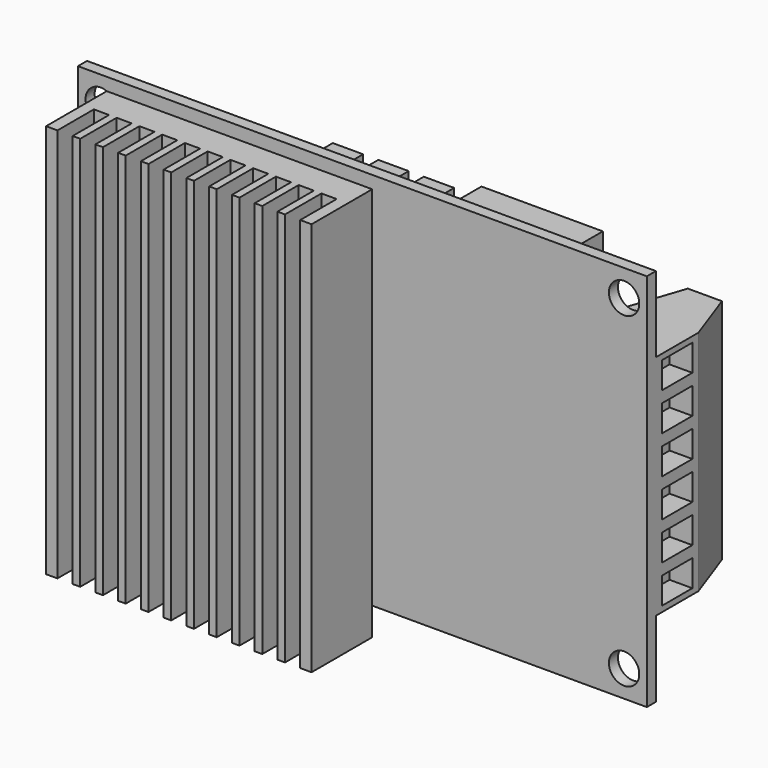
from build123d import *

# Parameters (mm, degrees)
SKETCH_W        = 75
SKETCH_H        = 50
SKETCH_R        = 2
PAD_DEPTH       = 1.5
SKETCH002_W     = 10
SKETCH002_H     = 30
PAD001_DEPTH    = 14
POCKET_DEPTH    = 30
SKETCH004_R     = 2
POCKET001_DEPTH = 2
SKETCH005_W     = 3.5
SKETCH005_H     = 5
POCKET002_DEPTH = 3
SKETCH006_W     = 3.5
SKETCH006_H     = 5
POCKET003_DEPTH = 3
SKETCH007_W     = 16
SKETCH007_H     = 10
PAD002_DEPTH    = 5
SKETCH008_W     = 1.5
SKETCH008_H     = 5
POCKET004_DEPTH = 0.5
SKETCH009_W     = 1.5
SKETCH009_H     = 1.5
PAD003_DEPTH    = 1.5
SKETCH010_W     = 4
SKETCH010_H     = 10
PAD004_DEPTH    = 3
SKETCH011_W     = 1.5
SKETCH011_H     = 6
POCKET005_DEPTH = 0.5
SKETCH012_W     = 1.5
SKETCH012_H     = 1.5
PAD005_DEPTH    = 2
SKETCH013_R     = 4.5
PAD006_DEPTH    = 16
FILLET_R        = 1
SKETCH014_R     = 3
PAD007_DEPTH    = 12
FILLET001_R     = 1
SKETCH015_W     = 6
SKETCH015_H     = 3
SKETCH015_H_2   = 3.63
PAD008_DEPTH    = 1
SKETCH016_W     = 6
SKETCH016_H     = 9
SKETCH016_H_2   = 7
SKETCH016_H_3   = 4
PAD009_DEPTH    = 4
SKETCH017_W     = 10
SKETCH017_H     = 4
SKETCH017_W_2   = 5
SKETCH017_H_2   = 5
SKETCH017_W_3   = 2
SKETCH017_H_3   = 3
PAD010_DEPTH    = 1
SKETCH018_W     = 13
SKETCH018_H     = 36
PAD011_DEPTH    = 4
SKETCH019_W     = 35
SKETCH019_H     = 52
PAD012_DEPTH    = 10
SKETCH020_W     = 2
SKETCH020_H     = 6
POCKET006_DEPTH = 52


with BuildPart() as part:
    # Sketch → Pad (new body)
    with BuildSketch(Plane.XZ):
        with Locations((37.5, 25)):
            Rectangle(SKETCH_W, SKETCH_H)
        with Locations((3, 46.5)):
            Circle(SKETCH_R, mode=Mode.SUBTRACT)
        with Locations((72, 46.5)):
            Circle(SKETCH_R, mode=Mode.SUBTRACT)
        with Locations((3, 3.5)):
            Circle(SKETCH_R, mode=Mode.SUBTRACT)
        with Locations((72, 3.5)):
            Circle(SKETCH_R, mode=Mode.SUBTRACT)
    extrude(amount=PAD_DEPTH)

    # Sketch002 (on Face9 of Pad) → Pad001 (join)
    with BuildSketch(Plane(origin=(0, 0, 0), x_dir=(1, 0, 0), z_dir=(0, 1, 0))):
        with Locations((5, -25)):
            Rectangle(SKETCH002_W, SKETCH002_H)
        with Locations((70, -25)):
            Rectangle(SKETCH002_W, SKETCH002_H)
    extrude(amount=PAD001_DEPTH)

    # Sketch003 (on Face11 of Pad001) → Pocket (cut)
    with BuildSketch(Plane(origin=(0, 0, 40), x_dir=(-1, 0, 0), z_dir=(0, 0, 1))):
        Polygon((0, -7), (0, -14), (-2, -14), align=None)
        Polygon((-7, -14), (-10, -14), (-10, -5), align=None)
        Polygon((-65, -5), (-65, -14), (-68, -14), align=None)
        Polygon((-72.5, -14), (-75, -14), (-75, -7), align=None)
    extrude(amount=-POCKET_DEPTH, mode=Mode.SUBTRACT)

    # Sketch004 (on Face22 of Pocket) → Pocket001 (cut)
    with BuildSketch(Plane(origin=(0, 14, 0), x_dir=(1, 0, 0), z_dir=(0, 1, 0))):
        with Locations((4.5, -12.5)):
            Circle(SKETCH004_R)
        with Locations((4.5, -17.5)):
            Circle(SKETCH004_R)
        with Locations((4.5, -22.5)):
            Circle(SKETCH004_R)
        with Locations((4.5, -27.5)):
            Circle(SKETCH004_R)
        with Locations((4.5, -32.5)):
            Circle(SKETCH004_R)
        with Locations((4.5, -37.5)):
            Circle(SKETCH004_R)
        with Locations((70.5, -12.5)):
            Circle(SKETCH004_R)
        with Locations((70.5, -17.5)):
            Circle(SKETCH004_R)
        with Locations((70.5, -22.5)):
            Circle(SKETCH004_R)
        with Locations((70.5, -27.5)):
            Circle(SKETCH004_R)
        with Locations((70.5, -32.5)):
            Circle(SKETCH004_R)
        with Locations((70.5, -37.5)):
            Circle(SKETCH004_R)
    extrude(amount=-POCKET001_DEPTH, mode=Mode.SUBTRACT)

    # Sketch005 (on Face7 of Pocket001) → Pocket002 (cut)
    with BuildSketch(Plane(origin=(0, 0, 0), x_dir=(0, 0, -1), z_dir=(-1, 0, 0))):
        with Locations((-37.5, -3.5)):
            Rectangle(SKETCH005_W, SKETCH005_H)
        with Locations((-32.5, -3.5)):
            Rectangle(SKETCH005_W, SKETCH005_H)
        with Locations((-27.5, -3.5)):
            Rectangle(SKETCH005_W, SKETCH005_H)
        with Locations((-22.5, -3.5)):
            Rectangle(SKETCH005_W, SKETCH005_H)
        with Locations((-17.5, -3.5)):
            Rectangle(SKETCH005_W, SKETCH005_H)
        with Locations((-12.5, -3.5)):
            Rectangle(SKETCH005_W, SKETCH005_H)
    extrude(amount=-POCKET002_DEPTH, mode=Mode.SUBTRACT)

    # Sketch006 (on Face8 of Pocket002) → Pocket003 (cut)
    with BuildSketch(Plane(origin=(75, 0, 0), x_dir=(0, 0, 1), z_dir=(1, 0, 0))):
        with Locations((12.5, -3.5)):
            Rectangle(SKETCH006_W, SKETCH006_H)
        with Locations((17.5, -3.5)):
            Rectangle(SKETCH006_W, SKETCH006_H)
        with Locations((22.5, -3.5)):
            Rectangle(SKETCH006_W, SKETCH006_H)
        with Locations((27.5, -3.5)):
            Rectangle(SKETCH006_W, SKETCH006_H)
        with Locations((32.5, -3.5)):
            Rectangle(SKETCH006_W, SKETCH006_H)
        with Locations((37.5, -3.5)):
            Rectangle(SKETCH006_W, SKETCH006_H)
    extrude(amount=-POCKET003_DEPTH, mode=Mode.SUBTRACT)

    # Sketch007 (on Face4 of Pocket003) → Pad002 (join)
    with BuildSketch(Plane(origin=(0, 0, 0), x_dir=(1, 0, 0), z_dir=(0, 1, 0))):
        with Locations((56, -44)):
            Rectangle(SKETCH007_W, SKETCH007_H)
    extrude(amount=PAD002_DEPTH)

    # Sketch008 (on Face77 of Pad002) → Pocket004 (cut)
    with BuildSketch(Plane(origin=(0, 5, 0), x_dir=(1, 0, 0), z_dir=(0, 1, 0))):
        with Locations((49.75, -43.5)):
            Rectangle(SKETCH008_W, SKETCH008_H)
        with Locations((52.25, -43.5)):
            Rectangle(SKETCH008_W, SKETCH008_H)
        with Locations((54.75, -43.5)):
            Rectangle(SKETCH008_W, SKETCH008_H)
        with Locations((57.25, -43.5)):
            Rectangle(SKETCH008_W, SKETCH008_H)
        with Locations((59.75, -43.5)):
            Rectangle(SKETCH008_W, SKETCH008_H)
        with Locations((62.25, -43.5)):
            Rectangle(SKETCH008_W, SKETCH008_H)
    extrude(amount=-POCKET004_DEPTH, mode=Mode.SUBTRACT)

    # Sketch009 (on Face140 of Pocket004) → Pad003 (join)
    with BuildSketch(Plane(origin=(0, 4.5, 0), x_dir=(1, 0, 0), z_dir=(0, 1, 0))):
        with Locations((49.75, -41.75)):
            Rectangle(SKETCH009_W, SKETCH009_H)
        with Locations((52.25, -41.75)):
            Rectangle(SKETCH009_W, SKETCH009_H)
        with Locations((54.75, -41.75)):
            Rectangle(SKETCH009_W, SKETCH009_H)
        with Locations((57.25, -41.75)):
            Rectangle(SKETCH009_W, SKETCH009_H)
        with Locations((59.75, -41.75)):
            Rectangle(SKETCH009_W, SKETCH009_H)
        with Locations((62.25, -41.75)):
            Rectangle(SKETCH009_W, SKETCH009_H)
    extrude(amount=PAD003_DEPTH)

    # Sketch010 (on Face4 of Pad003) → Pad004 (join)
    with BuildSketch(Plane(origin=(0, 0, 0), x_dir=(1, 0, 0), z_dir=(0, 1, 0))):
        with Locations((44, -44)):
            Rectangle(SKETCH010_W, SKETCH010_H)
        with Locations((38, -44)):
            Rectangle(SKETCH010_W, SKETCH010_H)
        with Locations((32, -44)):
            Rectangle(SKETCH010_W, SKETCH010_H)
    extrude(amount=PAD004_DEPTH)

    # Sketch011 (on Face92 of Pad004) → Pocket005 (cut)
    with BuildSketch(Plane(origin=(0, 3, 0), x_dir=(1, 0, 0), z_dir=(0, 1, 0))):
        with Locations((32, -44)):
            Rectangle(SKETCH011_W, SKETCH011_H)
        with Locations((38, -44)):
            Rectangle(SKETCH011_W, SKETCH011_H)
        with Locations((44, -44)):
            Rectangle(SKETCH011_W, SKETCH011_H)
    extrude(amount=-POCKET005_DEPTH, mode=Mode.SUBTRACT)

    # Sketch012 (on Face197 of Pocket005) → Pad005 (join)
    with BuildSketch(Plane(origin=(0, 2.5, 0), x_dir=(1, 0, 0), z_dir=(0, 1, 0))):
        with Locations((32, -41.75)):
            Rectangle(SKETCH012_W, SKETCH012_H)
        with Locations((38, -41.75)):
            Rectangle(SKETCH012_W, SKETCH012_H)
        with Locations((44, -41.75)):
            Rectangle(SKETCH012_W, SKETCH012_H)
    extrude(amount=PAD005_DEPTH)

    # Sketch013 (on Face4 of Pad005) → Pad006 (join)
    with BuildSketch(Plane(origin=(0, 0, 0), x_dir=(1, 0, 0), z_dir=(0, 1, 0))):
        with Locations((13, -5)):
            Circle(SKETCH013_R)
    extrude(amount=PAD006_DEPTH)

    # Fillet
    fillet_edges = [part.edges().sort_by_distance(p)[0] for p in [
        (8.5, 16, 5),
    ]]
    fillet(fillet_edges, radius=FILLET_R)

    # Sketch014 (on Face3 of Fillet) → Pad007 (join)
    with BuildSketch(Plane(origin=(0, 0, 0), x_dir=(1, 0, 0), z_dir=(0, 1, 0))):
        with Locations((39, -4)):
            Circle(SKETCH014_R)
    extrude(amount=PAD007_DEPTH)

    # Fillet001
    fillet001_edges = [part.edges().sort_by_distance(p)[0] for p in [
        (36, 12, 4),
    ]]
    fillet(fillet001_edges, radius=FILLET001_R)

    # Sketch015 (on Face3 of Fillet001) → Pad008 (join)
    with BuildSketch(Plane(origin=(0, 0, 0), x_dir=(1, 0, 0), z_dir=(0, 1, 0))):
        with Locations((22, -15.5)):
            Rectangle(SKETCH015_W, SKETCH015_H)
        with Locations((22, -19.815)):
            Rectangle(SKETCH015_W, SKETCH015_H_2)
        with Locations((22, -24.13)):
            Rectangle(SKETCH015_W, SKETCH015_H)
        with Locations((22, -28.13)):
            Rectangle(SKETCH015_W, SKETCH015_H)
        with Locations((22, -32.13)):
            Rectangle(SKETCH015_W, SKETCH015_H)
        with Locations((22, -36.13)):
            Rectangle(SKETCH015_W, SKETCH015_H)
    extrude(amount=PAD008_DEPTH)

    # Sketch016 (on Face3 of Pad008) → Pad009 (join)
    with BuildSketch(Plane(origin=(0, 0, 0), x_dir=(1, 0, 0), z_dir=(0, 1, 0))):
        with Locations((56, -15.5)):
            Rectangle(SKETCH016_W, SKETCH016_H)
        with Locations((56, -25.5)):
            Rectangle(SKETCH016_W, SKETCH016_H_2)
        with Locations((56, -33)):
            Rectangle(SKETCH016_W, SKETCH016_H_3)
    extrude(amount=PAD009_DEPTH)

    # Sketch017 (on Face3 of Pad009) → Pad010 (join)
    with BuildSketch(Plane(origin=(0, 0, 0), x_dir=(1, 0, 0), z_dir=(0, 1, 0))):
        with Locations((53, -5)):
            Rectangle(SKETCH017_W, SKETCH017_H)
        with Locations((30.451677, -3.5)):
            Rectangle(SKETCH017_W_2, SKETCH017_H_2)
        with Locations((20.951677, -2.5)):
            Rectangle(SKETCH017_W_3, SKETCH017_H_3)
    extrude(amount=PAD010_DEPTH)

    # Sketch018 (on Face85 of Pad010) → Pad011 (join)
    with BuildSketch(Plane.XZ.offset(1.5)):
        with Locations((21.5, 24.5)):
            Rectangle(SKETCH018_W, SKETCH018_H)
    extrude(amount=PAD011_DEPTH)

    # Sketch019 (on Face235 of Pad011) → Pad012 (join)
    with BuildSketch(Plane.XZ.offset(5.5)):
        with Locations((24.5, 25)):
            Rectangle(SKETCH019_W, SKETCH019_H)
    extrude(amount=PAD012_DEPTH)

    # Sketch020 (on Face1 of Pad012) → Pocket006 (cut)
    with BuildSketch(Plane(origin=(0, 0, 51), x_dir=(-1, 0, 0), z_dir=(0, 0, 1))):
        with Locations((-9.5, 12.5)):
            Rectangle(SKETCH020_W, SKETCH020_H)
        with Locations((-12.5, 12.5)):
            Rectangle(SKETCH020_W, SKETCH020_H)
        with Locations((-15.5, 12.5)):
            Rectangle(SKETCH020_W, SKETCH020_H)
        with Locations((-18.5, 12.5)):
            Rectangle(SKETCH020_W, SKETCH020_H)
        with Locations((-21.5, 12.5)):
            Rectangle(SKETCH020_W, SKETCH020_H)
        with Locations((-24.5, 12.5)):
            Rectangle(SKETCH020_W, SKETCH020_H)
        with Locations((-27.5, 12.5)):
            Rectangle(SKETCH020_W, SKETCH020_H)
        with Locations((-30.5, 12.5)):
            Rectangle(SKETCH020_W, SKETCH020_H)
        with Locations((-33.5, 12.5)):
            Rectangle(SKETCH020_W, SKETCH020_H)
        with Locations((-36.5, 12.5)):
            Rectangle(SKETCH020_W, SKETCH020_H)
        with Locations((-39.5, 12.5)):
            Rectangle(SKETCH020_W, SKETCH020_H)
    extrude(amount=-POCKET006_DEPTH, mode=Mode.SUBTRACT)


solid = part.part
